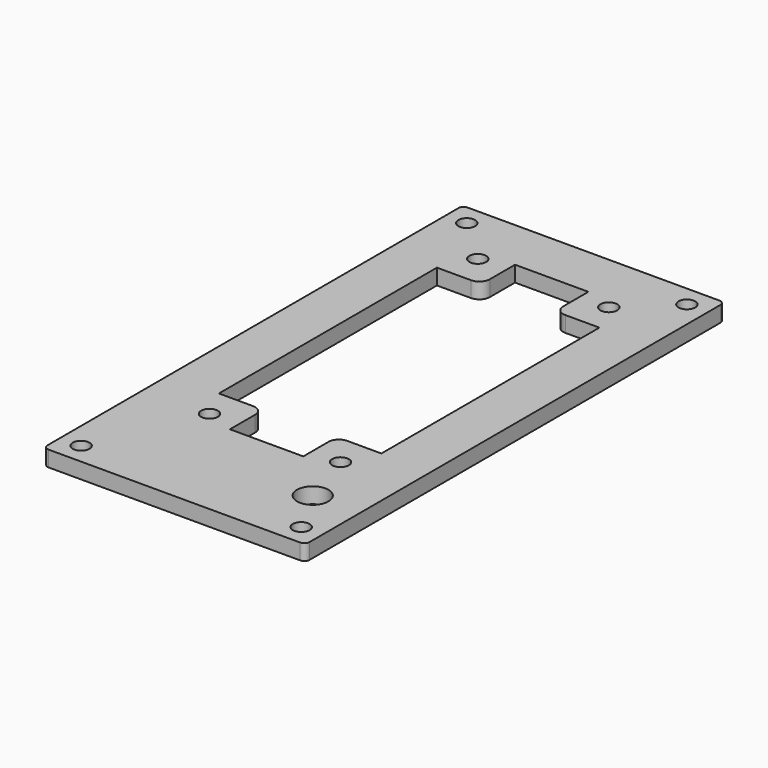
from build123d import *

# Parameters (mm, degrees)
SKETCH_W        = 50
SKETCH_H        = 100
PAD_DEPTH       = 3
SKETCH001_R     = 1.6
POCKET_DEPTH    = 3
SKETCH002_R     = 1.6
POCKET001_DEPTH = 3
SKETCH003_R     = 3
POCKET002_DEPTH = 3
FILLET_R        = 1
FILLET001_R     = 2


with BuildPart() as part:
    # Sketch → Pad (new body)
    with BuildSketch(Plane.XY):
        Rectangle(SKETCH_W, SKETCH_H)
    extrude(amount=PAD_DEPTH)

    # Sketch001 (on Face6 of Pad) → Pocket (cut)
    with BuildSketch(Plane.XY.offset(3)):
        with Locations((-21, 46)):
            Circle(SKETCH001_R)
        with Locations((21, 46)):
            Circle(SKETCH001_R)
        with Locations((-21, -46)):
            Circle(SKETCH001_R)
        with Locations((21, -46)):
            Circle(SKETCH001_R)
    extrude(amount=-POCKET_DEPTH, mode=Mode.SUBTRACT)

    # Sketch002 (on Face5 of Pocket) → Pocket001 (cut)
    with BuildSketch(Plane.XY.offset(3)):
        with Locations((-12.5, 38)):
            Circle(SKETCH002_R)
        with Locations((12.5, 38)):
            Circle(SKETCH002_R)
        with Locations((-12.5, -26)):
            Circle(SKETCH002_R)
        with Locations((12.5, -26)):
            Circle(SKETCH002_R)
        Polygon((-15.5, 32), (-15.5, -20), (-7, -20), (-7, -28), (7, -28), (7, -20), (15.5, -20), (15.5, 32), (7, 32), (7, 40), (-7, 40), (-7, 32), align=None)
    extrude(amount=-POCKET001_DEPTH, mode=Mode.SUBTRACT)

    # Sketch003 (on Face5 of Pocket001) → Pocket002 (cut)
    with BuildSketch(Plane.XY.offset(3)):
        with Locations((16, -37)):
            Circle(SKETCH003_R)
    extrude(amount=-POCKET002_DEPTH, mode=Mode.SUBTRACT)

    # Fillet
    fillet_edges = [part.edges().sort_by_distance(p)[0] for p in [
        (25, -50, 1.5),
        (-25, -50, 1.5),
        (25, 50, 1.5),
        (-25, 50, 1.5),
    ]]
    fillet(fillet_edges, radius=FILLET_R)

    # Fillet001
    fillet001_edges = [part.edges().sort_by_distance(p)[0] for p in [
        (-7, 32, 1.5),
        (7, 32, 1.5),
        (-7, -20, 1.5),
        (7, -20, 1.5),
    ]]
    fillet(fillet001_edges, radius=FILLET001_R)


solid = part.part
